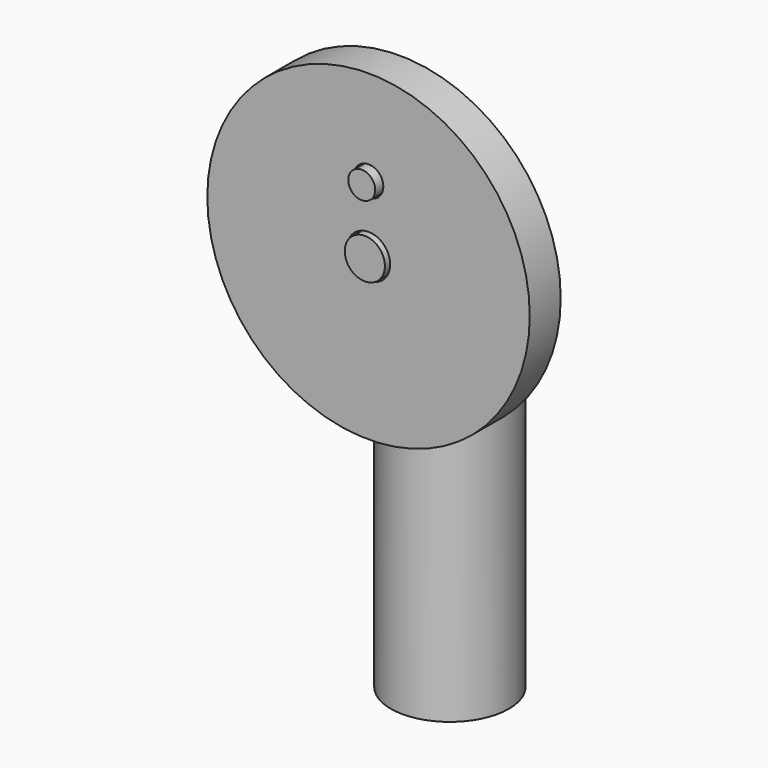
from build123d import *

# Parameters (mm, degrees)
F0_R           = 20.8488616531
F0_R_2         = 2.7914051361
F0_R_3         = 1.9110729526
F1_DEPTH       = 5
F2_R           = 2.5940480956
F3_DEPTH       = 5.6
F3_DEPTH_BACK  = 5
F4_R           = 1.7413542599
F5_DEPTH       = 6.1
F5_DEPTH_BACK  = 10
F6_R           = 7.64207238
F6_R_2         = 6.6503709335
F7_DEPTH       = 18.7
F7_DEPTH_BACK  = 18.8
F8_R           = 2.9048803565
F9_DEPTH       = 25
F9_DEPTH_BACK  = 10
F12_DEPTH      = 0.6
F12_DEPTH_BACK = 1
F13_W          = 14.4614959136
F13_H          = 1.7955116928
F14_DEPTH      = 4.7
F15_R          = 1.0302689198
F16_DEPTH      = 7.5
F16_DEPTH_BACK = 6.8
F17_R          = 0.9273844954
F18_DEPTH      = 1.7
F18_DEPTH_BACK = 2


with BuildPart() as f1:
    # F0 (on Front) → F1 (new body)
    with BuildSketch(Plane.XZ):
        with Locations((0, 35.5707108974)):
            Circle(F0_R)
        with Locations((0, 35.5707108974)):
            Circle(F0_R_2, mode=Mode.SUBTRACT)
        with Locations((0, 44.1428981721)):
            Circle(F0_R_3, mode=Mode.SUBTRACT)
        with Locations((0, 35.5707108974)):
            Circle(F0_R)
        with Locations((0, 35.5707108974)):
            Circle(F0_R_2, mode=Mode.SUBTRACT)
        with Locations((0, 44.1428981721)):
            Circle(F0_R_3, mode=Mode.SUBTRACT)
    extrude(amount=F1_DEPTH)


with BuildPart() as f3:
    # F2 (on Front) → F3 (new body, two sides)
    with BuildSketch(Plane.XZ) as f3_sk:
        with Locations((0, 35.55733338)):
            Circle(F2_R)
    extrude(amount=F3_DEPTH)
    extrude(f3_sk.sketch, amount=-F3_DEPTH_BACK)


with BuildPart() as f5:
    # F4 (on Front) → F5 (new body, two sides)
    with BuildSketch(Plane.XZ) as f5_sk:
        with Locations((0, 44.1428981721)):
            Circle(F4_R)
    extrude(amount=F5_DEPTH)
    extrude(f5_sk.sketch, amount=-F5_DEPTH_BACK)


with BuildPart() as f7:
    # F6 (on Top) → F7 (new body, two sides)
    with BuildSketch(Plane.XY) as f7_sk:
        with Locations((0, 8.151864633)):
            Circle(F6_R)
        with Locations((0, 8.151864633)):
            Circle(F6_R_2, mode=Mode.SUBTRACT)
    extrude(amount=F7_DEPTH)
    extrude(f7_sk.sketch, amount=-F7_DEPTH_BACK)


with BuildPart() as f9:
    # F8 (on Top) → F9 (new body, two sides)
    with BuildSketch(Plane.XY) as f9_sk:
        with Locations((0, 8.1250369549)):
            Circle(F8_R)
    extrude(amount=F9_DEPTH)
    extrude(f9_sk.sketch, amount=-F9_DEPTH_BACK)

    # F13 (on face) → F14 (cut)
    with BuildSketch(Plane.XY.offset(25)):
        with Locations((0, 8.1250369549)):
            Rectangle(F13_W, F13_H)
    extrude(amount=-F14_DEPTH, mode=Mode.SUBTRACT)


with BuildPart() as f12:
    # F11 (on offset) → F12 (new body, two sides)
    with BuildSketch(Plane.XZ.offset(-9.5)) as f12_sk:
        with BuildLine():
            Line((0.605799121, 23.6647080328), (0.605799121, 43.0362804415))
            ThreePointArc((0.605799121, 43.0362804415), (1.2222560307, 44.4555803897), (0, 45.4045385869))
            ThreePointArc((0, 45.4045385869), (-1.2222560307, 44.4555803897), (-0.605799121, 43.0362804415))
            Line((-0.605799121, 43.0362804415), (-0.605799121, 23.6647080328))
            ThreePointArc((-0.605799121, 23.6647080328), (0, 19.8502317187), (0.605799121, 23.6647080328))
        make_face()
    extrude(amount=F12_DEPTH)
    extrude(f12_sk.sketch, amount=-F12_DEPTH_BACK)


with BuildPart() as f16_tool:
    # F15 (on offset) → F16 (new body, two sides)
    with BuildSketch(Plane.XZ.offset(-9.5)) as f16_sk:
        with Locations((0, 21.7510685325)):
            Circle(F15_R)
    extrude(amount=-F16_DEPTH)
    extrude(f16_sk.sketch, amount=F16_DEPTH_BACK)


with BuildPart() as f9_1:
    add(f9.part)

    # F16: cut by f16_tool
    add(f16_tool.part, mode=Mode.SUBTRACT)


with BuildPart() as f12_1:
    add(f12.part)

    # F16: cut by f16_tool
    add(f16_tool.part, mode=Mode.SUBTRACT)


with BuildPart() as f18:
    # F17 (on offset) → F18 (new body, two sides)
    with BuildSketch(Plane.XZ.offset(-9.5)) as f18_sk:
        with Locations((0, 21.7454321682)):
            Circle(F17_R)
    extrude(amount=F18_DEPTH)
    extrude(f18_sk.sketch, amount=-F18_DEPTH_BACK)


solid = Compound([f1.part, f3.part, f5.part, f7.part, f9_1.part, f12_1.part, f18.part])
